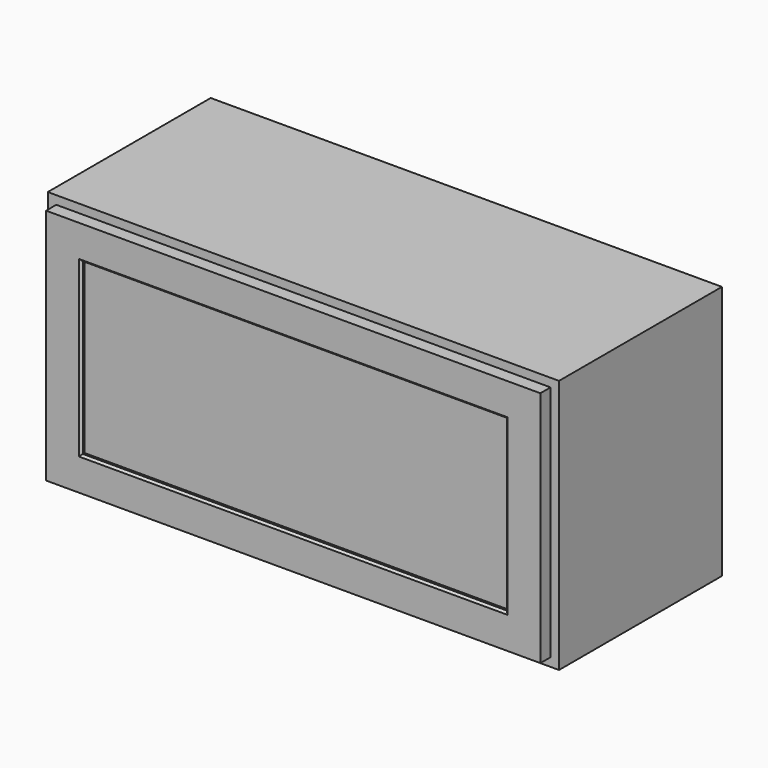
from build123d import *

# Parameters (mm, degrees)
F0_W     = 765.175
F0_H     = 304.8
F1_DEPTH = 381
F2_T     = -12.7
F3_W     = 765.175
F3_H     = 381
F3_W_2   = 749.3
F3_H_2   = 368.3
F3_W_3   = 739.775
F3_H_3   = 355.6
F3_W_4   = 682.625
F3_H_4   = 298.45
F4_DEPTH = 19.05
F3_W_5   = 635
F3_H_5   = 254
F5_DEPTH = 19.05
F6_W     = 7.9375
F6_H     = 254
F7_DEPTH = 635
F8_SIZE  = 3.175


with BuildPart() as f1:
    # F0 (on Top) → F1 (new body)
    with BuildSketch(Plane.XY):
        Rectangle(F0_W, F0_H)
    extrude(amount=F1_DEPTH)

    # F2
    f2_openings = [f1.faces().sort_by_distance(p)[0] for p in [
        (0, -152.4, 190.5),
    ]]
    offset(amount=F2_T, openings=f2_openings)

    # F3 (on face) → F4 (join)
    with BuildSketch(Plane.XZ.offset(152.4)):
        with Locations((0, 190.5)):
            Rectangle(F3_W, F3_H)
        with Locations((0, 190.5)):
            Rectangle(F3_W_2, F3_H_2, mode=Mode.SUBTRACT)
        with Locations((0, 190.5)):
            Rectangle(F3_W_2, F3_H_2)
        with Locations((0, 190.5)):
            Rectangle(F3_W_3, F3_H_3, mode=Mode.SUBTRACT)
        with Locations((0, 190.5)):
            Rectangle(F3_W_3, F3_H_3)
        with Locations((0, 190.5)):
            Rectangle(F3_W_4, F3_H_4, mode=Mode.SUBTRACT)
    extrude(amount=-F4_DEPTH)

    # F3 (on face) → F5 (join)
    with BuildSketch(Plane.XZ.offset(152.4)):
        with Locations((0, 190.5)):
            Rectangle(F3_W_3, F3_H_3)
        with Locations((0, 190.5)):
            Rectangle(F3_W_4, F3_H_4, mode=Mode.SUBTRACT)
        with Locations((0, 190.5)):
            Rectangle(F3_W_4, F3_H_4)
        with Locations((0, 190.5)):
            Rectangle(F3_W_5, F3_H_5, mode=Mode.SUBTRACT)
    extrude(amount=F5_DEPTH)

    # F6 (on face) → F7 (join, through all)
    with BuildSketch(Plane(origin=(317.5, 0, 0), x_dir=(0, -1, 0), z_dir=(-1, 0, 0))):
        with Locations((161.13125, 190.5)):
            Rectangle(F6_W, F6_H)
    extrude(amount=F7_DEPTH)

    # F8
    f8_edges = [f1.edges().sort_by_distance(p)[0] for p in [
        (0, -171.45, 63.5),
        (-317.5, -171.45, 190.5),
        (0, -171.45, 317.5),
        (317.5, -171.45, 190.5),
    ]]
    chamfer(f8_edges, length=F8_SIZE)


solid = f1.part
